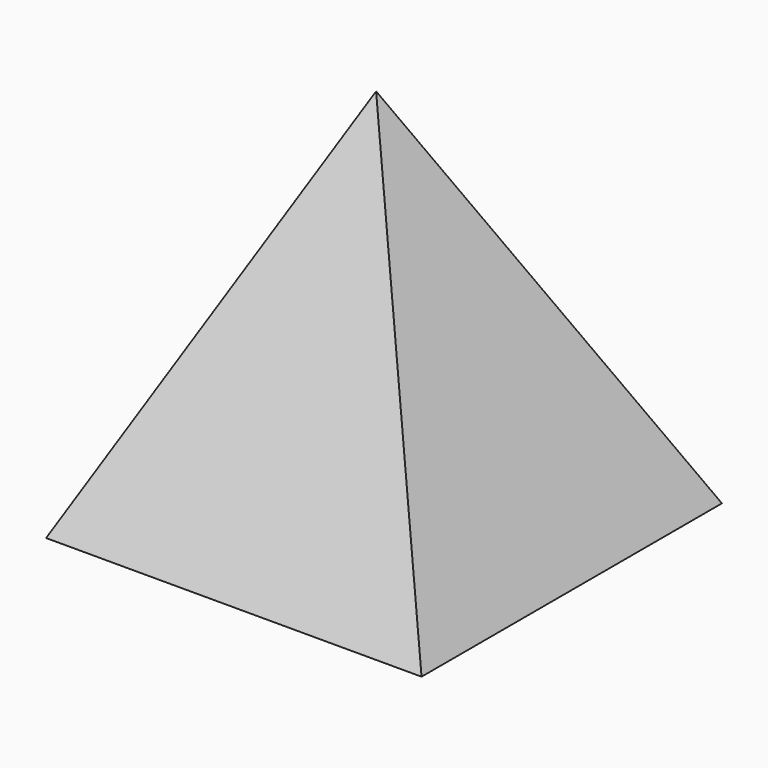
from build123d import *

# Parameters (mm, degrees)
F0_W = 100
F0_H = 100
F4_T = -2.5


with BuildPart() as f3:
    # F0 (on Top) → F3 section 0
    with BuildSketch(Plane.XY, mode=Mode.PRIVATE) as f3_s0:
        with Locations((2.1032192744, 0)):
            Rectangle(F0_W, F0_H)
    loft([f3_s0.sketch, Vertex(0, 0, 100)])

    # F4
    f4_openings = [f3.faces().sort_by_distance(p)[0] for p in [
        (2.103219, 0, 0),
    ]]
    offset(amount=F4_T, openings=f4_openings, kind=Kind.INTERSECTION)


solid = f3.part
